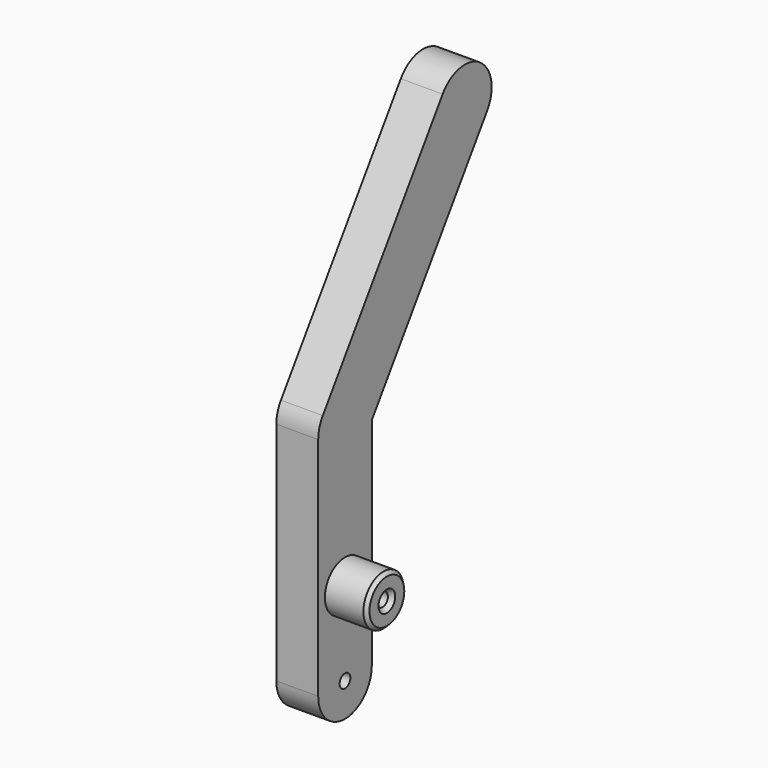
from build123d import *

# Parameters (mm, degrees)
F1_DEPTH       = 6.35
F2_R           = 3.81
F3_DEPTH       = 6.35
F5_D           = 2.032
F5_CSINK_D     = 3.175
F5_CSINK_ANGLE = 82
F6_D           = 2.032
F6_CSINK_D     = 3.175
F6_CSINK_ANGLE = 82
F7_SIZE        = 0.508


with BuildPart() as f1:
    # F0 (on Right) → F1 (new body)
    with BuildSketch(Plane.YZ):
        with BuildLine():
            ThreePointArc((-5.08, 12.7), (-3.5921024484, 9.1078975516), (0, 7.62))
            Line((0, 7.62), (0, 12.7))
            Line((0, 12.7), (0, 17.78))
            ThreePointArc((0, 17.78), (-3.5921024484, 16.2921024484), (-5.08, 12.7))
        make_face()
        with BuildLine():
            Line((0, 12.7), (0, 7.62))
            ThreePointArc((0, 7.62), (3.5921024484, 9.1078975516), (5.08, 12.7))
            ThreePointArc((5.08, 12.7), (3.5921024484, 16.2921024484), (0, 17.78))
            Line((0, 17.78), (0, 12.7))
        make_face()
        with BuildLine():
            ThreePointArc((5.08, 12.7), (3.5921024484, 9.1078975516), (0, 7.62))
            ThreePointArc((0, 7.62), (-3.5921024484, 9.1078975516), (-5.08, 12.7))
            Line((-5.08, 12.7), (-5.08, 0))
            ThreePointArc((-5.08, 0), (0, -5.08), (5.08, 0))
            Line((5.08, 0), (5.08, 12.7))
        make_face()
        with BuildLine():
            ThreePointArc((0, 17.78), (3.5921024484, 16.2921024484), (5.08, 12.7))
            Line((5.08, 12.7), (5.08, 32.7368881382))
            Line((5.08, 32.7368881382), (4.2115108686, 31.4493000504))
            ThreePointArc((4.2115108686, 31.4493000504), (2.384915539, 29.8046262283), (0, 29.21))
            Line((0, 29.21), (0, 17.78))
        make_face()
        with BuildLine():
            Line((-5.08, 34.29), (-5.08, 12.7))
            ThreePointArc((-5.08, 12.7), (-3.5921024484, 16.2921024484), (0, 17.78))
            Line((0, 17.78), (0, 29.21))
            ThreePointArc((0, 29.21), (-3.5921024484, 30.6978975516), (-5.08, 34.29))
        make_face()
        with BuildLine():
            Line((4.2115108686, 31.4493000504), (5.08, 32.7368881382))
            Line((5.08, 32.7368881382), (5.08, 34.29))
            ThreePointArc((5.08, 34.29), (4.4853737717, 36.674915539), (2.8406999496, 38.5015108686))
            Line((2.8406999496, 38.5015108686), (0, 34.29))
            Line((0, 34.29), (0, 29.21))
            ThreePointArc((0, 29.21), (2.384915539, 29.8046262283), (4.2115108686, 31.4493000504))
        make_face()
        with BuildLine():
            Line((5.08, 34.29), (5.08, 32.7368881382))
            Line((5.08, 32.7368881382), (26.9371104656, 65.141386999))
            ThreePointArc((26.9371104656, 65.141386999), (25.5662995467, 72.1935978172), (18.5140887285, 70.8227868983))
            Line((18.5140887285, 70.8227868983), (-4.2115108686, 37.1306999496))
            ThreePointArc((-4.2115108686, 37.1306999496), (-0.9693096965, 39.2766660919), (2.8406999496, 38.5015108686))
            ThreePointArc((2.8406999496, 38.5015108686), (4.4853737717, 36.674915539), (5.08, 34.29))
        make_face()
        with BuildLine():
            ThreePointArc((-4.2115108686, 37.1306999496), (-4.8580281603, 35.77524826), (-5.08, 34.29))
            ThreePointArc((-5.08, 34.29), (-3.5921024484, 30.6978975516), (0, 29.21))
            Line((0, 29.21), (0, 34.29))
            Line((0, 34.29), (2.8406999496, 38.5015108686))
            ThreePointArc((2.8406999496, 38.5015108686), (-0.9693096965, 39.2766660919), (-4.2115108686, 37.1306999496))
        make_face()
    extrude(amount=F1_DEPTH)

    # F2 (on face) → F3 (join)
    with BuildSketch(Plane.YZ.offset(6.35)):
        with Locations((0, 12.7)):
            Circle(F2_R)
    extrude(amount=F3_DEPTH)

    # F5 (through all)
    with Locations(Plane.YZ.offset(12.7)):
        with Locations((0, 12.7)):
            CounterSinkHole(F5_D / 2, F5_CSINK_D / 2, counter_sink_angle=F5_CSINK_ANGLE)

    # F6 (through all)
    with Locations(Plane(origin=(0, 0, 0), x_dir=(0, 1, 0), z_dir=(-1, 0, 0))):
        with Locations((0, 0)):
            CounterSinkHole(F6_D / 2, F6_CSINK_D / 2, counter_sink_angle=F6_CSINK_ANGLE)

    # F7
    f7_edges = [f1.edges().sort_by_distance(p)[0] for p in [
        (12.7, -3.81, 12.7),
    ]]
    chamfer(f7_edges, length=F7_SIZE)


solid = f1.part
